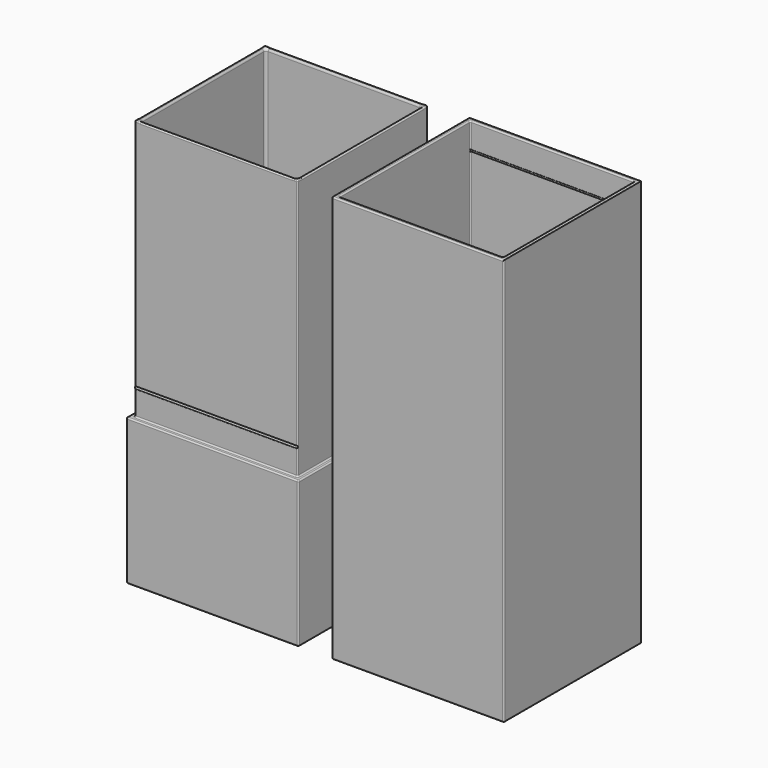
from build123d import *

# Parameters (mm, degrees)
F0_W      = 66
F0_H      = 156
F1_DEPTH  = 66
F2_W      = 62.8
F2_H      = 62.8
F2_W_2    = 60
F2_H_2    = 60
F2_W_3    = 66
F2_H_3    = 66
F2_W_4    = 62.4
F2_H_4    = 62.4
F3_DEPTH  = 100
F4_W      = 60
F4_H      = 60
F5_DEPTH  = 150
F6_R      = 1
F7_R      = 0.5
F7_2_R    = 0.5
F8_R      = 0.5
F9_DEPTH  = 62.4
F10_R     = 0.5
F10_2_R   = 0.5
F11_R     = 0.5
F12_DEPTH = 62.8


with BuildPart() as f1:
    # F0 (on Front) → F1 (new body)
    with BuildSketch(Plane.XZ):
        with Locations((-33, 78)):
            Rectangle(F0_W, F0_H)
    extrude(amount=F1_DEPTH)


with BuildPart() as f1b:
    # F0 (on Front) → F1, piece 2 (new body)
    with BuildSketch(Plane.XZ):
        with Locations((45.7, 78)):
            Rectangle(F0_W, F0_H)
    extrude(amount=F1_DEPTH)


with BuildPart() as f3_tool:
    # F2 (on face) → F3 (new body)
    with BuildSketch(Plane.XY.offset(156)):
        with Locations((45.7, -33)):
            Rectangle(F2_W, F2_H)
        with Locations((45.7, -33)):
            Rectangle(F2_W_2, F2_H_2, mode=Mode.SUBTRACT)
        with Locations((-33, -33)):
            Rectangle(F2_W_3, F2_H_3)
        with Locations((-33, -33)):
            Rectangle(F2_W_4, F2_H_4, mode=Mode.SUBTRACT)
    extrude(amount=-F3_DEPTH)


with BuildPart() as f1_1:
    add(f1.part)

    # F3: cut by f3_tool
    add(f3_tool.part, mode=Mode.SUBTRACT)


with BuildPart() as f1b_1:
    add(f1b.part)

    # F3: cut by f3_tool
    add(f3_tool.part, mode=Mode.SUBTRACT)


with BuildPart() as f5_tool:
    # F4 (on face) → F5 (new body)
    with BuildSketch(Plane.XY.offset(156)):
        with Locations((45.7, -33)):
            Rectangle(F4_W, F4_H)
        with Locations((-33, -33)):
            Rectangle(F4_W, F4_H)
    extrude(amount=-F5_DEPTH)


with BuildPart() as f1_2:
    add(f1_1.part)

    # F5: cut by f5_tool
    add(f5_tool.part, mode=Mode.SUBTRACT)

    # F6
    f6_edges = [f1_2.edges().sort_by_distance(p)[0] for p in [
        (-33, -3, 6),
        (-63, -33, 6),
        (-33, -63, 6),
        (-3, -33, 6),
        (-63, -63, 81),
        (-3, -63, 81),
        (-33, -63, 156),
        (-3, -3, 81),
        (-3, -33, 156),
        (-63, -3, 81),
        (-33, -3, 156),
        (-63, -33, 156),
    ]]
    fillet(f6_edges, radius=F6_R)

    # F7
    f7_edges = [f1_2.edges().sort_by_distance(p)[0] for p in [
        (-64.2, -64.2, 106),
        (-64.2, -1.8, 106),
        (-64.2, -33, 156),
        (-64.2, -33, 56),
        (-1.8, -64.2, 106),
        (-33, -64.2, 156),
        (-33, -64.2, 56),
        (-1.8, -1.8, 106),
        (-1.8, -33, 156),
        (-1.8, -33, 56),
        (-33, -1.8, 156),
        (-33, -1.8, 56),
        (0, 0, 28),
        (-33, 0, 0),
        (-66, 0, 28),
        (-33, 0, 56),
        (-66, -33, 0),
        (-66, -66, 28),
        (-66, -33, 56),
        (0, -66, 28),
        (-33, -66, 0),
        (-33, -66, 56),
        (0, -33, 56),
        (0, -33, 0),
        (-33, -63, 7),
        (-62, -63, 81),
        (-4, -63, 81),
        (-33, -63, 155),
        (-63, -33, 7),
        (-63, -4, 81),
        (-63, -62, 81),
        (-63, -33, 155),
    ]]
    fillet(f7_edges, radius=F7_R)


with BuildPart() as f1b_2:
    add(f1b_1.part)

    # F5: cut by f5_tool
    add(f5_tool.part, mode=Mode.SUBTRACT)

    # F7#2
    f7_2_edges = [f1b_2.edges().sort_by_distance(p)[0] for p in [
        (12.7, -33, 0),
        (78.7, -33, 0),
        (45.7, 0, 0),
        (45.7, -66, 0),
        (45.7, -66, 156),
        (12.7, -66, 78),
        (78.7, -66, 78),
        (45.7, 0, 156),
        (12.7, 0, 78),
        (78.7, 0, 78),
        (12.7, -33, 156),
        (14.3, -64.4, 106),
        (77.1, -64.4, 106),
        (45.7, -64.4, 156),
        (45.7, -64.4, 56),
        (14.3, -1.6, 106),
        (14.3, -33, 156),
        (14.3, -33, 56),
        (45.7, -63, 56),
        (75.7, -63, 31),
        (45.7, -63, 6),
        (15.7, -63, 31),
        (15.7, -33, 56),
        (15.7, -33, 6),
        (15.7, -3, 31),
        (45.7, -3, 6),
        (75.7, -33, 6),
        (45.7, -3, 56),
        (75.7, -3, 31),
        (77.1, -1.6, 106),
        (45.7, -1.6, 156),
        (45.7, -1.6, 56),
        (77.1, -33, 156),
        (77.1, -33, 56),
        (75.7, -33, 56),
    ]]
    fillet(f7_2_edges, radius=F7_2_R)

    # F11 (on face) → F12 (cut, through all)
    with BuildSketch(Plane(origin=(77.1, 0, 0), x_dir=(0, -1, 0), z_dir=(-1, 0, 0))):
        with Locations((64, 146)):
            Circle(F11_R)
        with Locations((2, 146)):
            Circle(F11_R)
    extrude(amount=F12_DEPTH, mode=Mode.SUBTRACT)


with BuildPart() as f9:
    # F8 (on face) → F9 (new body, through all)
    with BuildSketch(Plane(origin=(-64.2, 0, 0), x_dir=(0, -1, 0), z_dir=(-1, 0, 0))):
        with Locations((2, 66)):
            Circle(F8_R)
    extrude(amount=-F9_DEPTH)

    # F10
    f10_edges = [f9.edges().sort_by_distance(p)[0] for p in [
        (-64.2, -1.5, 66),
        (-1.8, -1.5, 66),
    ]]
    fillet(f10_edges, radius=F10_R)


with BuildPart() as f9b:
    # F8 (on face) → F9, piece 2 (new body, through all)
    with BuildSketch(Plane(origin=(-64.2, 0, 0), x_dir=(0, -1, 0), z_dir=(-1, 0, 0))):
        with Locations((64, 66)):
            Circle(F8_R)
    extrude(amount=-F9_DEPTH)

    # F10#2
    f10_2_edges = [f9b.edges().sort_by_distance(p)[0] for p in [
        (-64.2, -63.5, 66),
        (-1.8, -63.5, 66),
    ]]
    fillet(f10_2_edges, radius=F10_2_R)


solid = Compound([f1_2.part, f1b_2.part, f9.part, f9b.part])
